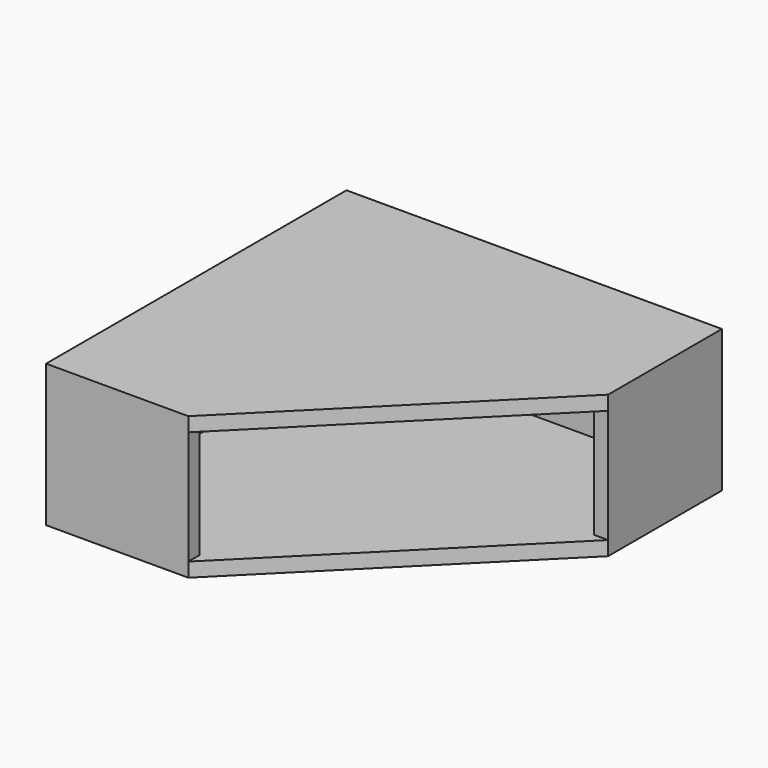
from build123d import *

# Parameters (mm, degrees)
F1_DEPTH = 25
F3_DEPTH = 200
F5_DEPTH = 25


with BuildPart() as f1:
    # F0 (on Top) → F1 (new body)
    with BuildSketch(Plane.XY):
        Polygon((-401.6996773316, 377.6099345749), (-401.6996773316, -282.3900654251), (-151.6996773316, -282.3900654251), (258.3003226684, 127.6099345749), (258.3003226684, 377.6099345749), align=None)
    extrude(amount=F1_DEPTH)

    # F2 (on face) → F3 (join)
    with BuildSketch(Plane.XY.offset(25)):
        Polygon((-376.6996773316, -257.3900654251), (-376.6996773316, 352.6099345749), (233.3003226684, 352.6099345749), (233.3003226684, 127.6099345749), (258.3003226684, 127.6099345749), (258.3003226684, 377.6099345749), (-401.6996773316, 377.6099345749), (-401.6996773316, -282.3900654251), (-151.6996773316, -282.3900654251), (-151.6996773316, -257.3900654251), align=None)
    extrude(amount=F3_DEPTH)

    # F4 (on face) → F5 (join)
    with BuildSketch(Plane.XY.offset(225)):
        Polygon((-401.6996773316, -282.3900654251), (-151.6996773316, -282.3900654251), (-151.6996773316, -257.3900654251), (-376.6996773316, -257.3900654251), (-376.6996773316, 352.6099345749), (233.3003226684, 352.6099345749), (233.3003226684, 127.6099345749), (258.3003226684, 127.6099345749), (258.3003226684, 377.6099345749), (-401.6996773316, 377.6099345749), align=None)
        Polygon((-151.6996773316, -257.3900654251), (-151.6996773316, -282.3900654251), (258.3003226684, 127.6099345749), (233.3003226684, 127.6099345749), (233.3003226684, 352.6099345749), (-376.6996773316, 352.6099345749), (-376.6996773316, -257.3900654251), align=None)
    extrude(amount=F5_DEPTH)


solid = f1.part
